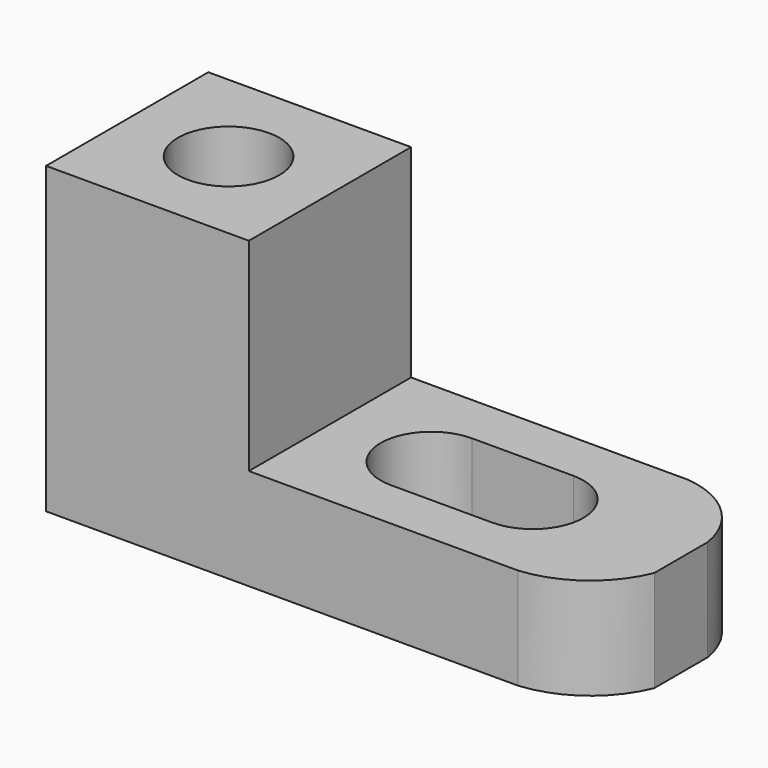
from build123d import *

# Parameters (mm, degrees)
F1_DEPTH = 25.4
F3_DEPTH = 25.4
F4_R     = 6.35
F5_DEPTH = 25.4
F7_DEPTH = 25.4


with BuildPart() as f1:
    # F0 (on Front) → F1 (new body)
    with BuildSketch(Plane.XZ):
        Polygon((0, 38.1), (0, 0), (69.85, 0), (69.85, 12.7), (25.4, 12.7), (25.4, 38.1), align=None)
    extrude(amount=F1_DEPTH)

    # F2 (on face) → F3 (cut)
    with BuildSketch(Plane.XY.offset(12.7)):
        with BuildLine():
            ThreePointArc((60.03999, 0), (66.500733, -2.88518), (69.85, -9.117986))
            Line((69.85, -9.117986), (69.85, 0))
            Line((69.85, 0), (60.03999, 0))
        make_face()
        with BuildLine():
            Line((69.85, -25.4), (69.85, -17.481705))
            ThreePointArc((69.85, -17.481705), (65.590949, -22.957802), (59.097659, -25.4))
            Line((59.097659, -25.4), (69.85, -25.4))
        make_face()
    extrude(amount=-F3_DEPTH, mode=Mode.SUBTRACT)

    # F4 (on face) → F5 (cut)
    with BuildSketch(Plane.XY.offset(38.1)):
        with Locations((12.7, -12.7)):
            Circle(F4_R)
    extrude(amount=-F5_DEPTH, mode=Mode.SUBTRACT)

    # F6 (on face) → F7 (cut)
    with BuildSketch(Plane.XY.offset(12.7)):
        with BuildLine():
            ThreePointArc((38.1, -19.05), (42.590128, -17.190128), (44.45, -12.7))
            ThreePointArc((44.45, -12.7), (42.590128, -8.209872), (38.1, -6.35))
            ThreePointArc((38.1, -6.35), (31.75, -12.7), (38.1, -19.05))
        make_face()
        with BuildLine():
            ThreePointArc((50.8, -6.35), (46.309872, -8.209872), (44.45, -12.7))
            ThreePointArc((44.45, -12.7), (46.309872, -17.190128), (50.8, -19.05))
            ThreePointArc((50.8, -19.05), (55.290128, -17.190128), (57.15, -12.7))
            ThreePointArc((57.15, -12.7), (55.290128, -8.209872), (50.8, -6.35))
        make_face()
        with BuildLine():
            ThreePointArc((50.8, -19.05), (46.309872, -17.190128), (44.45, -12.7))
            ThreePointArc((44.45, -12.7), (42.590128, -17.190128), (38.1, -19.05))
            Line((38.1, -19.05), (50.8, -19.05))
        make_face()
        with BuildLine():
            ThreePointArc((38.1, -6.35), (42.590128, -8.209872), (44.45, -12.7))
            ThreePointArc((44.45, -12.7), (46.309872, -8.209872), (50.8, -6.35))
            Line((50.8, -6.35), (38.1, -6.35))
        make_face()
    extrude(amount=-F7_DEPTH, mode=Mode.SUBTRACT)


solid = f1.part
